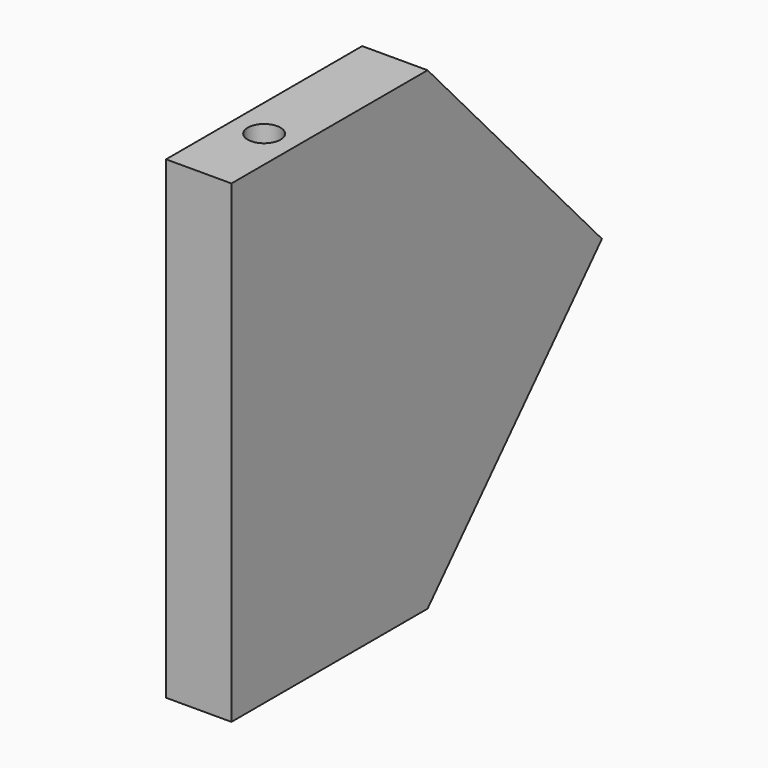
from build123d import *

# Parameters (mm, degrees)
F1_DEPTH = 12
F2_R     = 3
F3_DEPTH = 20
F4_R     = 3
F5_DEPTH = 25
F6_R     = 2
F7_DEPTH = 25
F8_W     = 60
F8_H     = 87
F9_DEPTH = 25


with BuildPart() as f1:
    # F0 (on Right) → F1 (new body)
    with BuildSketch(Plane.YZ):
        Polygon((0, 87), (0, 0), (105, 0), (145, 43.5), (105, 87), align=None)
    extrude(amount=F1_DEPTH)

    # F2 (on face) → F3 (cut)
    with BuildSketch(Plane.XY.offset(87)):
        with Locations((6, 15)):
            Circle(F2_R)
        with Locations((6, 45)):
            Circle(F2_R)
        with Locations((6, 75)):
            Circle(F2_R)
    extrude(amount=-F3_DEPTH, mode=Mode.SUBTRACT)

    # F4 (on face) → F5 (cut)
    with BuildSketch(Plane(origin=(0, 0, 0), x_dir=(1, 0, 0), z_dir=(0, 0, -1))):
        with BuildLine():
            Line((6, -15), (9, -15))
            ThreePointArc((9, -15), (8.12132, -12.87868), (6, -12))
            Line((6, -12), (6, -15))
        make_face()
        with BuildLine():
            ThreePointArc((9, -45), (8.12132, -42.87868), (6, -42))
            ThreePointArc((6, -42), (3.87868, -47.12132), (9, -45))
        make_face()
        with BuildLine():
            ThreePointArc((6, -18), (8.12132, -17.12132), (9, -15))
            Line((9, -15), (6, -15))
            Line((6, -15), (6, -18))
        make_face()
        with BuildLine():
            Line((6, -15), (6, -12))
            ThreePointArc((6, -12), (3, -15), (6, -18))
            Line((6, -18), (6, -15))
        make_face()
        with Locations((6, -75)):
            Circle(F4_R)
    extrude(amount=-F5_DEPTH, mode=Mode.SUBTRACT)

    # F6 (on face) → F7 (cut)
    with BuildSketch(Plane(origin=(0, 0, 0), x_dir=(0, -1, 0), z_dir=(-1, 0, 0))):
        with Locations((-6, 77)):
            Circle(F6_R)
        with Locations((-6, 10)):
            Circle(F6_R)
    extrude(amount=-F7_DEPTH, mode=Mode.SUBTRACT)

    # F8 (on face) → F9 (cut)
    with BuildSketch(Plane.YZ.offset(12)):
        with Locations((30, 43.5)):
            Rectangle(F8_W, F8_H)
    extrude(amount=-F9_DEPTH, mode=Mode.SUBTRACT)


solid = f1.part
